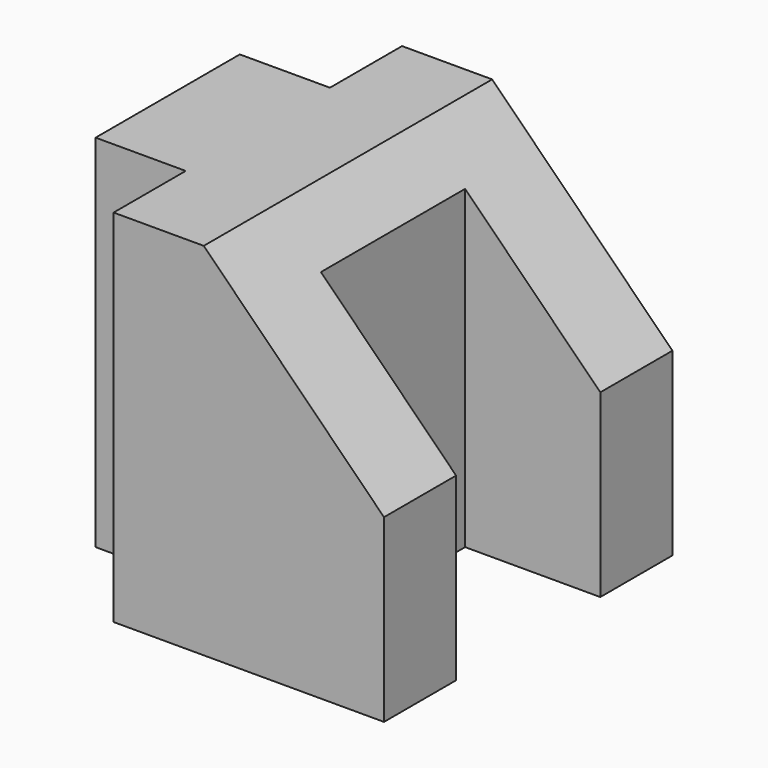
from build123d import *

# Parameters (mm, degrees)
F0_W     = 12.7
F0_H     = 50.8
F1_DEPTH = 25.4
F2_W     = 12.7
F2_H     = 12.7
F2_W_2   = 19.05
F2_H_2   = 25.4
F3_DEPTH = 50.801


with BuildPart() as f1:
    # F0 (on Front) → F1 (new body, symmetric)
    with BuildSketch(Plane.XZ):
        Polygon((12.7, 50.8), (12.7, 0), (50.8, 0), (50.8, 25.4), (25.4, 50.8), align=None)
        with Locations((6.35, 25.4)):
            Rectangle(F0_W, F0_H)
    extrude(amount=F1_DEPTH, both=True)

    # F2 (on face) → F3 (cut, through all)
    with BuildSketch(Plane.XY.offset(50.8)):
        with Locations((6.35, 19.05)):
            Rectangle(F2_W, F2_H)
        with Locations((6.35, -19.05)):
            Rectangle(F2_W, F2_H)
        with Locations((41.275, 0)):
            Rectangle(F2_W_2, F2_H_2)
    extrude(amount=-F3_DEPTH, mode=Mode.SUBTRACT)


solid = f1.part
